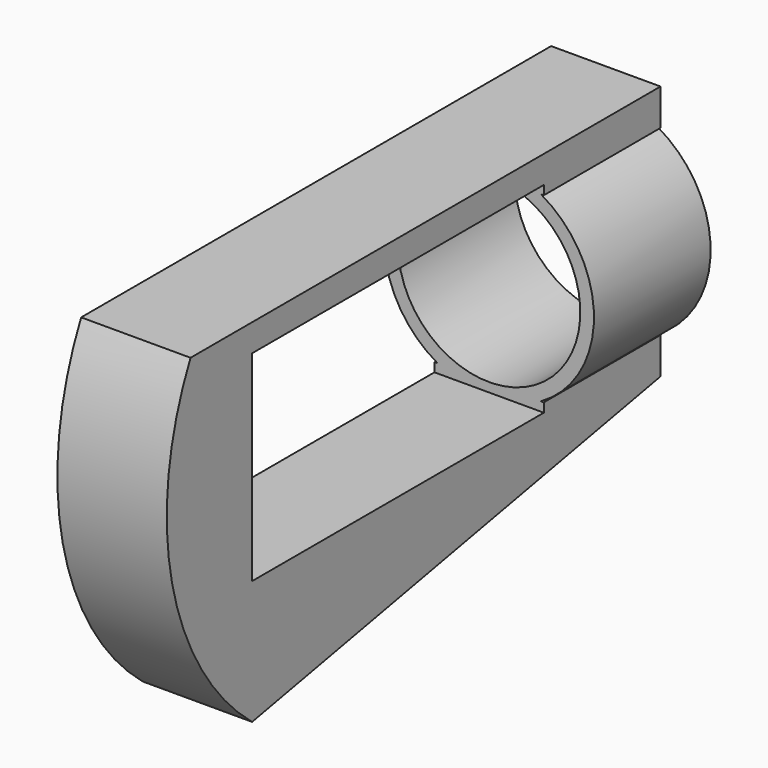
from build123d import *

# Parameters (mm, degrees)
F1_DEPTH = 38.1
F2_R     = 36.5125
F2_R_2   = 31.75
F3_DEPTH = 50.8
F5_DEPTH = 127


with BuildPart() as f1:
    # F0 (on Right) → F1 (new body)
    with BuildSketch(Plane.YZ):
        with BuildLine():
            Line((50.8, 0), (0, 0))
            Line((0, 0), (0, -3.175))
            Line((0, -3.175), (-127, -3.175))
            Line((-127, -3.175), (-127, 66.675))
            Line((-127, 66.675), (0, 66.675))
            Line((0, 66.675), (0, 63.5))
            Line((0, 63.5), (50.8, 63.5))
            Line((50.8, 63.5), (50.8, 76.2))
            Line((50.8, 76.2), (-127, 109.855))
            ThreePointArc((-127, 109.855), (-164.16102, 31.75), (-127, -46.355))
            Line((-127, -46.355), (50.8, -12.7))
            Line((50.8, -12.7), (50.8, 0))
        make_face()
    extrude(amount=F1_DEPTH)

    # F2 (on face) → F3 (join)
    with BuildSketch(Plane(origin=(0, 50.8, 0), x_dir=(-1, 0, 0), z_dir=(0, 1, 0))):
        with Locations((-19.05, 31.75)):
            Circle(F2_R)
        with Locations((-19.05, 31.75)):
            Circle(F2_R_2, mode=Mode.SUBTRACT)
    extrude(amount=-F3_DEPTH)

    # F4 (on face) → F5 (cut)
    with BuildSketch(Plane.YZ.offset(38.1)):
        with BuildLine():
            Line((-153.815218, 76.2), (50.8, 76.2))
            Line((50.8, 76.2), (-127, 109.855))
            ThreePointArc((-127, 109.855), (-142.227029, 94.477155), (-153.815218, 76.2))
        make_face()
    extrude(amount=-F5_DEPTH, mode=Mode.SUBTRACT)


solid = f1.part
